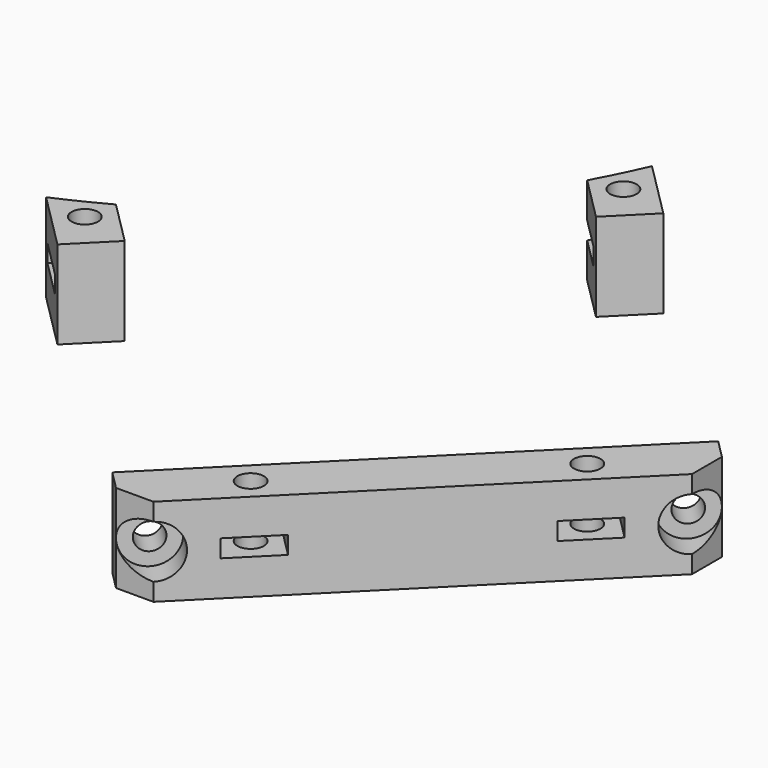
from build123d import *

# Parameters (mm, degrees)
CYLINDER1721_R              = 1.5
CYLINDER1721_DEPTH          = 60
CYLINDER1718_R              = 1.5
CYLINDER1718_DEPTH          = 60
CYLINDER1719_R              = 1.5
CYLINDER1719_DEPTH          = 60
CYLINDER1720_R              = 1.5
CYLINDER1720_DEPTH          = 60
COMPOUND860_PLACEMENT_ANGLE = 225
BOX682_W                    = 6
BOX682_H                    = 6
BOX682_DEPTH                = 2
BOX680_W                    = 6
BOX680_H                    = 6
BOX680_DEPTH                = 2
BOX683_W                    = 6
BOX683_H                    = 6
BOX683_DEPTH                = 2
BOX681_W                    = 7
BOX681_H                    = 6
BOX681_DEPTH                = 2
COMPOUND859_PLACEMENT_ANGLE = 225
CYLINDER1711_R              = 1.5
CYLINDER1711_DEPTH          = 50
COMPOUND852_PLACEMENT_ANGLE = 225
CYLINDER1710_R              = 1.5
CYLINDER1710_DEPTH          = 50
COMPOUND851_PLACEMENT_ANGLE = 225
CYLINDER1713_R              = 3
CYLINDER1713_DEPTH          = 3
COMPOUND855_PLACEMENT_ANGLE = 225
CYLINDER1712_R              = 3
CYLINDER1712_DEPTH          = 3
COMPOUND854_PLACEMENT_ANGLE = 225
CYLINDER1709_R              = 74
CYLINDER1709_DEPTH          = 40
BOX675_W                    = 42
BOX675_H                    = 62
BOX675_DEPTH                = 50
COMPOUND850_PLACEMENT_ANGLE = 225
BOX674_W                    = 56
BOX674_H                    = 44
BOX674_DEPTH                = 10
COMPOUND849_PLACEMENT_ANGLE = 225
BOX673_W                    = 54
BOX673_H                    = 68
BOX673_DEPTH                = 10
COMPOUND848_PLACEMENT_ANGLE = 225
CHAMFER052_SIZE             = 3


with BuildPart() as obj1:
    # Cylinder1721 → Cylinder1721 (new body)
    with BuildSketch(Plane(origin=(-24, 73, -80), x_dir=(1, 0, 0), z_dir=(0, 0, 1))):
        Circle(CYLINDER1721_R)
    extrude(amount=CYLINDER1721_DEPTH)


with BuildPart() as obj2:
    # Cylinder1718 → Cylinder1718 (new body)
    with BuildSketch(Plane(origin=(-15, 125, -80), x_dir=(1, 0, 0), z_dir=(0, 0, 1))):
        Circle(CYLINDER1718_R)
    extrude(amount=CYLINDER1718_DEPTH)


with BuildPart() as obj3:
    # Cylinder1719 → Cylinder1719 (new body)
    with BuildSketch(Plane(origin=(15, 125, -80), x_dir=(1, 0, 0), z_dir=(0, 0, 1))):
        Circle(CYLINDER1719_R)
    extrude(amount=CYLINDER1719_DEPTH)


with BuildPart() as compound860:
    # Cylinder1720 → Cylinder1720 (new body)
    with BuildSketch(Plane(origin=(24, 73, -80), x_dir=(1, 0, 0), z_dir=(0, 0, 1))):
        Circle(CYLINDER1720_R)
    extrude(amount=CYLINDER1720_DEPTH)

    # Compound860: union obj1, obj2, obj3
    add(obj1.part)
    add(obj2.part)
    add(obj3.part)


with BuildPart() as compound860_1:
    # Compound860 placement: moved
    add(compound860.part.moved(Location((0, 0, 100))).rotate(Axis((0, 0, 100), (0, 0, 1)), COMPOUND860_PLACEMENT_ANGLE))


with BuildPart() as krychle682:
    # Box682 → Box682 (new body)
    with BuildSketch(Plane(origin=(-18, 122, -48), x_dir=(1, 0, 0), z_dir=(0, 0, 1))):
        with Locations((3, 3)):
            Rectangle(BOX682_W, BOX682_H)
    extrude(amount=BOX682_DEPTH)


with BuildPart() as krychle680:
    # Box680 → Box680 (new body)
    with BuildSketch(Plane(origin=(21, 70, -48), x_dir=(1, 0, 0), z_dir=(0, 0, 1))):
        with Locations((3, 3)):
            Rectangle(BOX680_W, BOX680_H)
    extrude(amount=BOX680_DEPTH)


with BuildPart() as krychle683:
    # Box683 → Box683 (new body)
    with BuildSketch(Plane(origin=(12, 122, -48), x_dir=(1, 0, 0), z_dir=(0, 0, 1))):
        with Locations((3, 3)):
            Rectangle(BOX683_W, BOX683_H)
    extrude(amount=BOX683_DEPTH)


with BuildPart() as compound859:
    # Box681 → Box681 (new body)
    with BuildSketch(Plane(origin=(-28, 70, -48), x_dir=(1, 0, 0), z_dir=(0, 0, 1))):
        with Locations((3.5, 3)):
            Rectangle(BOX681_W, BOX681_H)
    extrude(amount=BOX681_DEPTH)

    # Compound859: union Krychle682, Krychle680, Krychle683
    add(krychle682.part)
    add(krychle680.part)
    add(krychle683.part)


with BuildPart() as compound859_1:
    # Compound859 placement: moved
    add(compound859.part.moved(Location((0, 0, 117))).rotate(Axis((0, 0, 117), (0, 0, 1)), COMPOUND859_PLACEMENT_ANGLE))


with BuildPart() as compound852:
    # Cylinder1711 → Cylinder1711 (new body)
    with BuildSketch(Plane(origin=(24, 140, 72), x_dir=(1, 0, 0), z_dir=(0, -1, 0))):
        Circle(CYLINDER1711_R)
    extrude(amount=CYLINDER1711_DEPTH)


with BuildPart() as compound852_1:
    # Compound852 placement: moved
    add(compound852.part.rotate(Axis((0, 0, 0), (0, 0, 1)), COMPOUND852_PLACEMENT_ANGLE))


with BuildPart() as compound853:
    # Cylinder1710 → Cylinder1710 (new body)
    with BuildSketch(Plane(origin=(-24, 140, 72), x_dir=(1, 0, 0), z_dir=(0, -1, 0))):
        Circle(CYLINDER1710_R)
    extrude(amount=CYLINDER1710_DEPTH)


with BuildPart() as compound853_1:
    # Compound851 placement: moved
    add(compound853.part.rotate(Axis((0, 0, 0), (0, 0, 1)), COMPOUND851_PLACEMENT_ANGLE))

    # Compound853: union Compound852
    add(compound852_1.part)


with BuildPart() as compound853_2:
    # Compound853 placement: moved
    add(compound853_1.part.moved(Location((0, 0, -2))))


with BuildPart() as compound855:
    # Cylinder1713 → Cylinder1713 (new body)
    with BuildSketch(Plane(origin=(24, 128, 72), x_dir=(1, 0, 0), z_dir=(0, -1, 0))):
        Circle(CYLINDER1713_R)
    extrude(amount=CYLINDER1713_DEPTH)


with BuildPart() as compound855_1:
    # Compound855 placement: moved
    add(compound855.part.rotate(Axis((0, 0, 0), (0, 0, 1)), COMPOUND855_PLACEMENT_ANGLE))


with BuildPart() as compound856:
    # Cylinder1712 → Cylinder1712 (new body)
    with BuildSketch(Plane(origin=(-24, 128, 72), x_dir=(1, 0, 0), z_dir=(0, -1, 0))):
        Circle(CYLINDER1712_R)
    extrude(amount=CYLINDER1712_DEPTH)


with BuildPart() as compound856_1:
    # Compound854 placement: moved
    add(compound856.part.rotate(Axis((0, 0, 0), (0, 0, 1)), COMPOUND854_PLACEMENT_ANGLE))

    # Compound856: union Compound855
    add(compound855_1.part)


with BuildPart() as compound856_2:
    # Compound856 placement: moved
    add(compound856_1.part.moved(Location((0, 0, -2))))


with BuildPart() as obj4:
    # Cylinder1709 → Cylinder1709 (new body)
    with BuildSketch(Plane.XY.offset(44)):
        Circle(CYLINDER1709_R)
    extrude(amount=CYLINDER1709_DEPTH)


with BuildPart() as compound850:
    # Box675 → Box675 (new body)
    with BuildSketch(Plane(origin=(-21.001071, 60.005081, 31), x_dir=(1, 0, 0), z_dir=(0, 0, 1))):
        with Locations((21, 31)):
            Rectangle(BOX675_W, BOX675_H)
    extrude(amount=BOX675_DEPTH)


with BuildPart() as compound850_1:
    # Compound850 placement: moved
    add(compound850.part.rotate(Axis((0, 0, 0), (0, 0, 1)), COMPOUND850_PLACEMENT_ANGLE))


with BuildPart() as compound849:
    # Box674 → Box674 (new body)
    with BuildSketch(Plane(origin=(-28, 78, 75), x_dir=(1, 0, 0), z_dir=(0, 0, 1))):
        with Locations((28, 22)):
            Rectangle(BOX674_W, BOX674_H)
    extrude(amount=BOX674_DEPTH)


with BuildPart() as compound849_1:
    # Compound849 placement: moved
    add(compound849.part.moved(Location((0, 0, -10))).rotate(Axis((0, 0, -10), (0, 0, 1)), COMPOUND849_PLACEMENT_ANGLE))


with BuildPart() as cut497:
    # Box673 → Box673 (new body)
    with BuildSketch(Plane(origin=(-27.004408, 59.99801, 75), x_dir=(1, 0, 0), z_dir=(0, 0, 1))):
        with Locations((27, 34)):
            Rectangle(BOX673_W, BOX673_H)
    extrude(amount=BOX673_DEPTH)


with BuildPart() as cut497_1:
    # Compound848 placement: moved
    add(cut497.part.moved(Location((0, 0, -10))).rotate(Axis((0, 0, -10), (0, 0, 1)), COMPOUND848_PLACEMENT_ANGLE))

    # Cut491: cut Compound849
    add(compound849_1.part, mode=Mode.SUBTRACT)

    # Cut492: cut Compound850
    add(compound850_1.part, mode=Mode.SUBTRACT)

    # Cut493: cut obj4
    add(obj4.part, mode=Mode.SUBTRACT)

    # Chamfer052
    chamfer052_edges = [cut497_1.edges().sort_by_distance(p)[0] for p in [
        (109.603261, -71.413261, 70),
        (71.419495, -109.597027, 70),
    ]]
    chamfer(chamfer052_edges, length=CHAMFER052_SIZE)

    # Cut494: cut Compound856
    add(compound856_2.part, mode=Mode.SUBTRACT)

    # Cut495: cut Compound853
    add(compound853_2.part, mode=Mode.SUBTRACT)

    # Cut496: cut Compound859
    add(compound859_1.part, mode=Mode.SUBTRACT)

    # Cut497: cut Compound860
    add(compound860_1.part, mode=Mode.SUBTRACT)


solid = cut497_1.part
